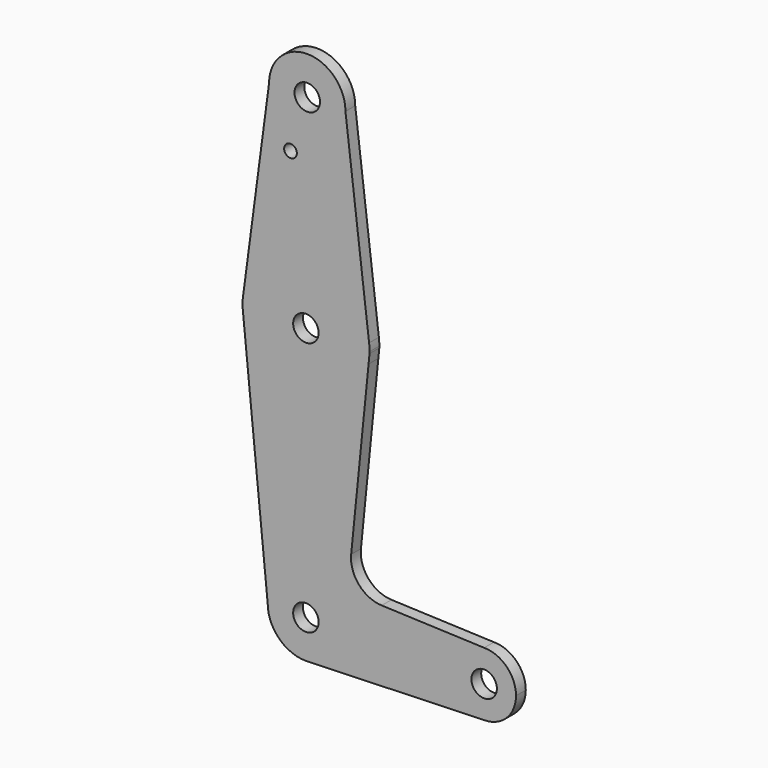
from build123d import *

# Parameters (mm, degrees)
F0_R     = 3.175
F0_R_2   = 1.5875
F1_DEPTH = 3.048


with BuildPart() as f1:
    # F0 (on Front) → F1 (new body)
    with BuildSketch(Plane.XZ):
        with BuildLine():
            ThreePointArc((-42.564166, 56.713822), (-33.039166, 47.188822), (-23.514166, 56.713822))
            ThreePointArc((-23.514166, 56.713822), (-33.039166, 66.238822), (-42.564166, 56.713822))
        make_face()
        with Locations((-33.039166, 56.713822)):
            Circle(F0_R, mode=Mode.SUBTRACT)
        with BuildLine():
            Line((-17.62108, 7.814404), (-23.514166, 56.713822))
            ThreePointArc((-23.514166, 56.713822), (-33.039166, 47.188822), (-42.564166, 56.713822))
            Line((-42.564166, 56.713822), (-48.799064, 9.700603))
            ThreePointArc((-48.799064, 9.700603), (-32.423389, 21.761008), (-17.62108, 7.814404))
        make_face()
        with Locations((-37.212044, 43.58318)):
            Circle(F0_R_2, mode=Mode.SUBTRACT)
        with BuildLine():
            ThreePointArc((-17.507039, 5.91498), (-17.535575, 6.866402), (-17.62108, 7.814404))
            ThreePointArc((-17.62108, 7.814404), (-32.423389, 21.761008), (-48.799064, 9.700603))
            Line((-48.799064, 9.700603), (-49.25287, 6.278755))
            Line((-49.25287, 6.278755), (-48.870949, 2.43514))
            ThreePointArc((-48.870949, 2.43514), (-33.02257, -9.95595), (-17.75146, 3.139981))
            Line((-17.75146, 3.139981), (-17.511851, 5.524148))
            ThreePointArc((-17.511851, 5.524148), (-17.508242, 5.719549), (-17.507039, 5.91498))
        make_face()
        with Locations((-33.382039, 5.91498)):
            Circle(F0_R, mode=Mode.SUBTRACT)
        with BuildLine():
            ThreePointArc((-17.75146, 3.139981), (-33.02257, -9.95595), (-48.870949, 2.43514))
            Line((-48.870949, 2.43514), (-42.907039, -57.58502))
            ThreePointArc((-42.907039, -57.58502), (-33.382039, -48.06002), (-23.857039, -57.58502))
            ThreePointArc((-23.857039, -57.58502), (-26.429398, -64.095506), (-32.757074, -67.089495))
            Line((-32.757074, -67.089495), (11.067778, -65.650202))
            ThreePointArc((11.067778, -65.650202), (3.130278, -57.712702), (11.067778, -49.775202))
            Line((11.067778, -49.775202), (-14.48823, -48.789074))
            ThreePointArc((-14.48823, -48.789074), (-20.179443, -46.063271), (-22.092036, -40.049795))
            Line((-22.092036, -40.049795), (-17.75146, 3.139981))
        make_face()
        with BuildLine():
            ThreePointArc((-23.857039, -57.58502), (-33.382039, -48.06002), (-42.907039, -57.58502))
            ThreePointArc((-42.907039, -57.58502), (-40.117231, -64.320212), (-33.382039, -67.11002))
            Line((-33.382039, -67.11002), (-32.757074, -67.089495))
            ThreePointArc((-32.757074, -67.089495), (-26.429398, -64.095506), (-23.857039, -57.58502))
        make_face()
        with Locations((-33.382039, -57.58502)):
            Circle(F0_R, mode=Mode.SUBTRACT)
        with BuildLine():
            ThreePointArc((19.005278, -57.712702), (16.680438, -52.100042), (11.067778, -49.775202))
            ThreePointArc((11.067778, -49.775202), (3.130278, -57.712702), (11.067778, -65.650202))
            ThreePointArc((11.067778, -65.650202), (16.680438, -63.325362), (19.005278, -57.712702))
        make_face()
        with Locations((11.067778, -57.712702)):
            Circle(F0_R, mode=Mode.SUBTRACT)
    extrude(amount=F1_DEPTH)


solid = f1.part
